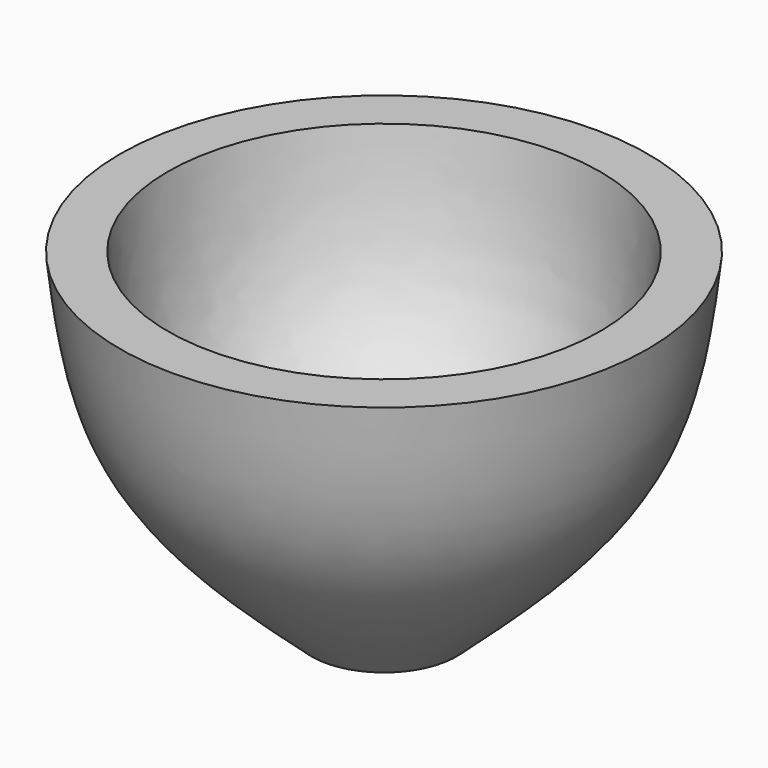
from build123d import *

# Parameters (mm, degrees)
F2_T = -17.78


with BuildPart() as f1:
    # F0 (on Front) → F1 (revolve)
    with BuildSketch(Plane.XZ):
        with BuildLine():
            Line((0, -52.3512475193), (0, 72.3177790642))
            Line((0, 72.3177790642), (-98.8586395979, 72.3177790642))
            add(Edge.make_bspline(
                [(-98.8586395979, 72.3177790642), (-96.3689977934, 50.777815843), (-91.0447325957, 4.713166571), (-49.389651467, -32.5254929086), (-27.212606743, -52.3512475193)],
                knots=[0, 0, 0, 0, 0.4676028921, 1, 1, 1, 1], degree=3))
            Line((-27.212606743, -52.3512475193), (0, -52.3512475193))
        make_face()
    revolve(axis=Axis((0, 0, 9.9832657725), (0, 0, -1)))

    # F2
    f2_openings = [f1.faces().sort_by_distance(p)[0] for p in [
        (0, 0, 72.317779),
    ]]
    offset(amount=F2_T, openings=f2_openings)


solid = f1.part
